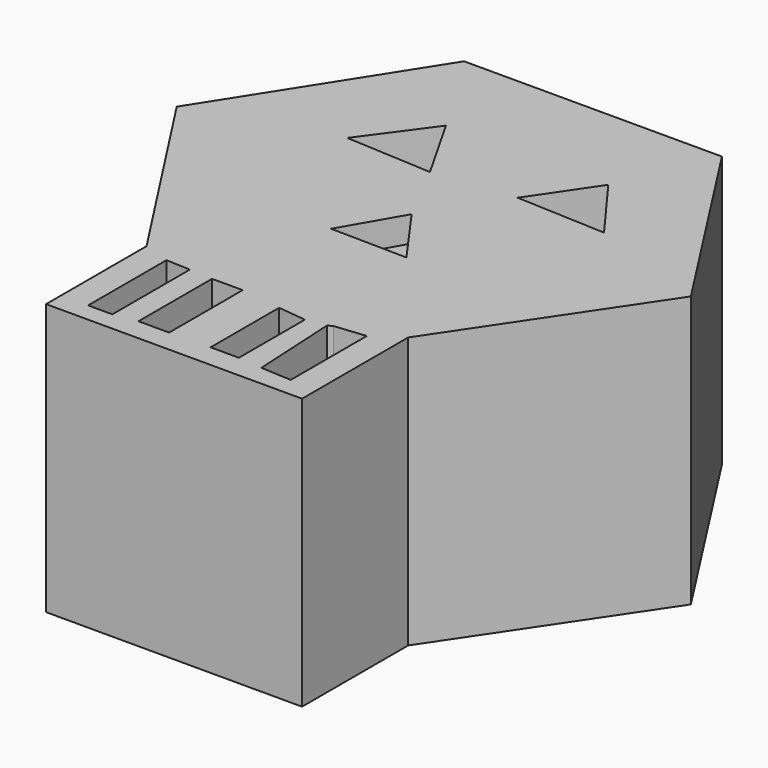
from build123d import *

# Parameters (mm, degrees)
PAD_DEPTH       = 21
POCKET_DEPTH    = 5
POCKET001_DEPTH = 5
POCKET002_DEPTH = 10
SKETCH004_W     = 2.373045
SKETCH004_H     = 7.119136
POCKET003_DEPTH = 10
POCKET004_DEPTH = 10
POCKET005_DEPTH = 10
POCKET006_DEPTH = 2


with BuildPart() as part:
    # Sketch → Pad (new body)
    with BuildSketch(Plane.XY):
        Polygon((-10.032319, 15.304274), (9.936683, 15.304274), (19.912732, -0.173444), (9.919492, -15.052223), (9.919492, -25.320239), (-9.903072, -25.320239), (-9.903072, -15.596819), (-19.889567, -0.189549), align=None)
    extrude(amount=PAD_DEPTH)

    # Sketch001 (on Face10 of Pad) → Pocket (cut)
    with BuildSketch(Plane.XY.offset(21)):
        Polygon((-5.628046, 8.046473), (-9.278885, 3.056992), (-2.58568, 2.691908), align=None)
    extrude(amount=-POCKET_DEPTH, mode=Mode.SUBTRACT)

    # Sketch002 (on Face5 of Pocket) → Pocket001 (cut)
    with BuildSketch(Plane.XY.offset(21)):
        Polygon((6.8832, 8.120049), (3.658293, 3.373958), (10.594886, 3.069721), align=None)
    extrude(amount=-POCKET001_DEPTH, mode=Mode.SUBTRACT)

    # Sketch003 (on Face5 of Pocket001) → Pocket002 (cut)
    with BuildSketch(Plane.XY.offset(21)):
        Polygon((-7.814318, -23.860096), (-5.938107, -23.860096), (-5.938107, -16.355255), (-7.814318, -16.27368), align=None)
    extrude(amount=-POCKET002_DEPTH, mode=Mode.SUBTRACT)

    # Sketch004 (on Face5 of Pocket002) → Pocket003 (cut)
    with BuildSketch(Plane.XY.offset(21)):
        with Locations((-2.952688, -20.020277)):
            Rectangle(SKETCH004_W, SKETCH004_H)
    extrude(amount=-POCKET003_DEPTH, mode=Mode.SUBTRACT)

    # Sketch005 (on Face5 of Pocket003) → Pocket004 (cut)
    with BuildSketch(Plane.XY.offset(21)):
        Polygon((1.397894, -16.88661), (1.397894, -23.518969), (3.588397, -23.518969), (3.588397, -17.129999), align=None)
    extrude(amount=-POCKET004_DEPTH, mode=Mode.SUBTRACT)

    # Sketch006 (on Face5 of Pocket004) → Pocket005 (cut)
    with BuildSketch(Plane.XY.offset(21)):
        Polygon((5.109581, -16.88661), (5.474663, -23.701509), (7.847709, -23.823204), (7.847709, -16.460678), (5.474663, -16.704067), align=None)
    extrude(amount=-POCKET005_DEPTH, mode=Mode.SUBTRACT)

    # Sketch007 (on Face5 of Pocket005) → Pocket006 (cut)
    with BuildSketch(Plane.XY.offset(21)):
        Polygon((0, -2.312892), (-2.612413, -6.846357), (3.296795, -6.937919), align=None)
    extrude(amount=-POCKET006_DEPTH, mode=Mode.SUBTRACT)


solid = part.part
